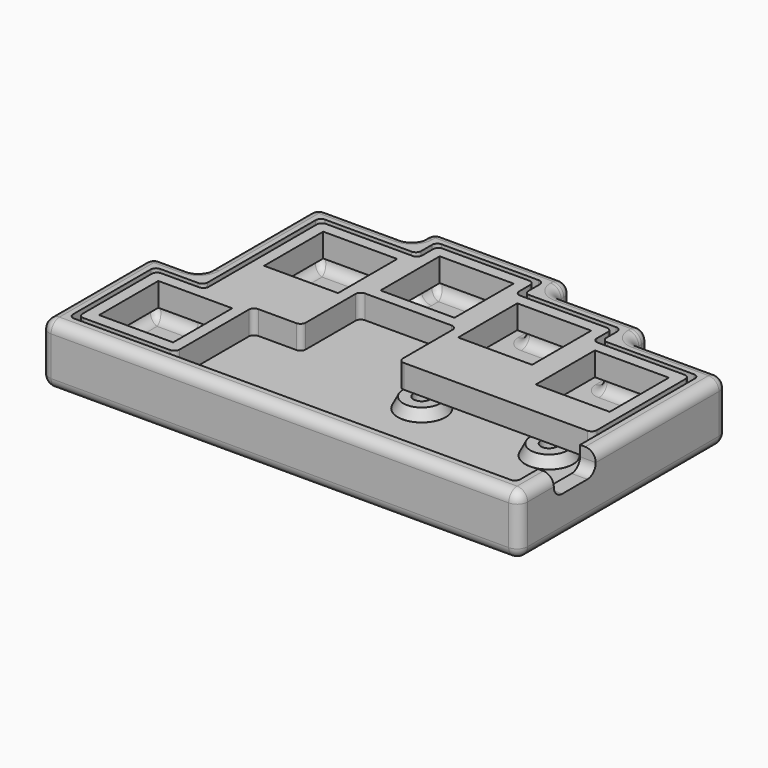
from build123d import *

# Parameters (mm, degrees)
SKETCH_W        = 14.1
SKETCH_H        = 14.1
PAD_DEPTH       = 4.5
FILLET_R        = 1
SKETCH001_R     = 1.55
PAD001_DEPTH    = 11.5
POCKET_DEPTH    = 8.5
FILLET001_R     = 2
FILLET002_R     = 1
FILLET003_R     = 2
SKETCH003_R     = 4.55
SKETCH003_R_2   = 1.55
PAD002_DEPTH    = 2
CHAMFER_1_SIZE2 = 1
CHAMFER_1_SIZE  = 1.99
CHAMFER_2_SIZE2 = 1
CHAMFER_2_SIZE  = 1.99
POCKET001_DEPTH = 5


with BuildPart() as plate:
    # Sketch → Pad (new body)
    with BuildSketch(Plane.XY):
        Polygon((0, 0), (18.5, 0), (18.5, 18.5), (27.75, 18.5), (27.75, 32.375), (46.25, 32.375), (46.25, 18.5), (83.25, 18.5), (83.25, 41.625), (64.75, 41.625), (64.75, 46.25), (46.25, 46.25), (46.25, 50.875), (27.75, 50.875), (27.75, 46.25), (9.25, 46.25), (9.25, 18.5), (0, 18.5), align=None)
        with Locations((9.25, 9.25)):
            Rectangle(SKETCH_W, SKETCH_H, mode=Mode.SUBTRACT)
        with Locations((18.5, 37)):
            Rectangle(SKETCH_W, SKETCH_H, mode=Mode.SUBTRACT)
        with Locations((37, 41.625)):
            Rectangle(SKETCH_W, SKETCH_H, mode=Mode.SUBTRACT)
        with Locations((55.5, 37)):
            Rectangle(SKETCH_W, SKETCH_H, mode=Mode.SUBTRACT)
        with Locations((74, 32.375)):
            Rectangle(SKETCH_W, SKETCH_H, mode=Mode.SUBTRACT)
    extrude(amount=PAD_DEPTH)

    # Fillet
    fillet_edges = [plate.edges().sort_by_distance(p)[0] for p in [
        (0, 18.5, 2.25),
        (0, 0, 2.25),
        (18.5, 0, 2.25),
        (18.5, 18.5, 2.25),
        (27.75, 18.5, 2.25),
        (27.75, 32.375, 2.25),
        (46.25, 18.5, 2.25),
        (46.25, 32.375, 2.25),
        (83.25, 18.5, 2.25),
        (9.25, 46.25, 2.25),
        (27.75, 50.875, 2.25),
        (46.25, 50.875, 2.25),
        (46.25, 46.25, 2.25),
        (64.75, 46.25, 2.25),
        (64.75, 41.625, 2.25),
        (83.25, 41.625, 2.25),
        (27.75, 46.25, 2.25),
        (9.25, 18.5, 2.25),
    ]]
    fillet(fillet_edges, radius=FILLET_R)


with BuildPart() as plate_1:
    # Body placement: moved
    add(plate.part.moved(Location((4, 4, 7))))


with BuildPart() as body001:
    # Sketch001 → Pad001 (new body)
    with BuildSketch(Plane.XY):
        Polygon((0, 0), (91.25, 0), (91.25, 49.625), (72.75, 49.625), (72.75, 54.25), (54.25, 54.25), (54.25, 58.875), (27.75, 58.875), (27.75, 54.25), (9.25, 54.25), (9.25, 26.5), (0, 26.5), align=None)
        with Locations((76.594, 25.455)):
            Circle(SKETCH001_R, mode=Mode.SUBTRACT)
        with Locations((52.313, 25.455)):
            Circle(SKETCH001_R, mode=Mode.SUBTRACT)
    extrude(amount=PAD001_DEPTH)

    # Sketch002 (on Face16 of Pad001) → Pocket (cut)
    with BuildSketch(Plane.XY.offset(11.5)):
        Polygon((3, 3), (3, 23.5), (12.25, 23.5), (12.25, 51.25), (30.75, 51.25), (30.75, 55.875), (51.25, 55.875), (51.25, 51.25), (69.75, 51.25), (69.75, 46.625), (88.25, 46.625), (88.25, 3), align=None)
    extrude(amount=-POCKET_DEPTH, mode=Mode.SUBTRACT)

    # Fillet001
    fillet001_edges = [body001.edges().sort_by_distance(p)[0] for p in [
        (0, 0, 5.75),
        (0, 26.5, 5.75),
        (27.75, 58.875, 5.75),
        (27.75, 54.25, 5.75),
        (9.25, 54.25, 5.75),
        (9.25, 26.5, 5.75),
        (54.25, 58.875, 5.75),
        (54.25, 54.25, 5.75),
        (72.75, 54.25, 5.75),
        (72.75, 49.625, 5.75),
        (91.25, 49.625, 5.75),
        (91.25, 0, 5.75),
    ]]
    fillet(fillet001_edges, radius=FILLET001_R)

    # Fillet002
    fillet002_edges = [body001.edges().sort_by_distance(p)[0] for p in [
        (30.75, 51.25, 7.25),
        (51.25, 55.875, 7.25),
        (51.25, 51.25, 7.25),
        (69.75, 51.25, 7.25),
        (69.75, 46.625, 7.25),
        (88.25, 46.625, 7.25),
        (3, 23.5, 7.25),
        (12.25, 23.5, 7.25),
        (12.25, 51.25, 7.25),
        (30.75, 55.875, 7.25),
        (88.25, 3, 7.25),
        (3, 3, 7.25),
    ]]
    fillet(fillet002_edges, radius=FILLET002_R)

    # Fillet003
    fillet003_edges = [body001.edges().sort_by_distance(p)[0] for p in [
        (0, 13.25, 11.5),
        (12.25, 37.375, 3),
        (45.625, 0, 0),
    ]]
    fillet(fillet003_edges, radius=FILLET003_R)

    # Sketch003 (on Face114 of Fillet003) → Pad002 (join)
    with BuildSketch(Plane.XY.offset(3)):
        with Locations((52.313, 25.455)):
            Circle(SKETCH003_R)
        with Locations((52.313, 25.455)):
            Circle(SKETCH003_R_2, mode=Mode.SUBTRACT)
        with Locations((76.594, 25.455)):
            Circle(SKETCH003_R)
        with Locations((76.594, 25.455)):
            Circle(SKETCH003_R_2, mode=Mode.SUBTRACT)
    extrude(amount=PAD002_DEPTH)

    # Chamfer 1
    chamfer_1_edges = [body001.edges().sort_by_distance(p)[0] for p in [
        (72.044, 25.455, 5),
    ]]
    chamfer_1_side = body001.faces().sort_by_distance((72.044, 25.455, 4))[0]
    chamfer(chamfer_1_edges, length=CHAMFER_1_SIZE, length2=CHAMFER_1_SIZE2, reference=chamfer_1_side)

    # Chamfer 2
    chamfer_2_edges = [body001.edges().sort_by_distance(p)[0] for p in [
        (47.763, 25.455, 5),
    ]]
    chamfer_2_side = body001.faces().sort_by_distance((47.763, 25.455, 4))[0]
    chamfer(chamfer_2_edges, length=CHAMFER_2_SIZE, length2=CHAMFER_2_SIZE2, reference=chamfer_2_side)

    # Sketch004 (on Face39 of Chamfer) → Pocket001 (cut)
    with BuildSketch(Plane(origin=(88.25, 0, 0), x_dir=(0, -1, 0), z_dir=(-1, 0, 0))):
        with BuildLine():
            Line((-13.25, 11.5), (-8.25, 11.5))
            Line((-8.25, 11.5), (-8.25, 9.5))
            ThreePointArc((-10.25, 7.5), (-8.835786, 8.085786), (-8.25, 9.5))
            Line((-16.25, 7.5), (-10.25, 7.5))
            ThreePointArc((-18.25, 9.5), (-17.664214, 8.085786), (-16.25, 7.5))
            Line((-18.25, 11.5), (-18.25, 9.5))
            Line((-13.25, 11.5), (-18.25, 11.5))
        make_face()
    extrude(amount=-POCKET001_DEPTH, mode=Mode.SUBTRACT)


solid = Compound([plate_1.part, body001.part])
